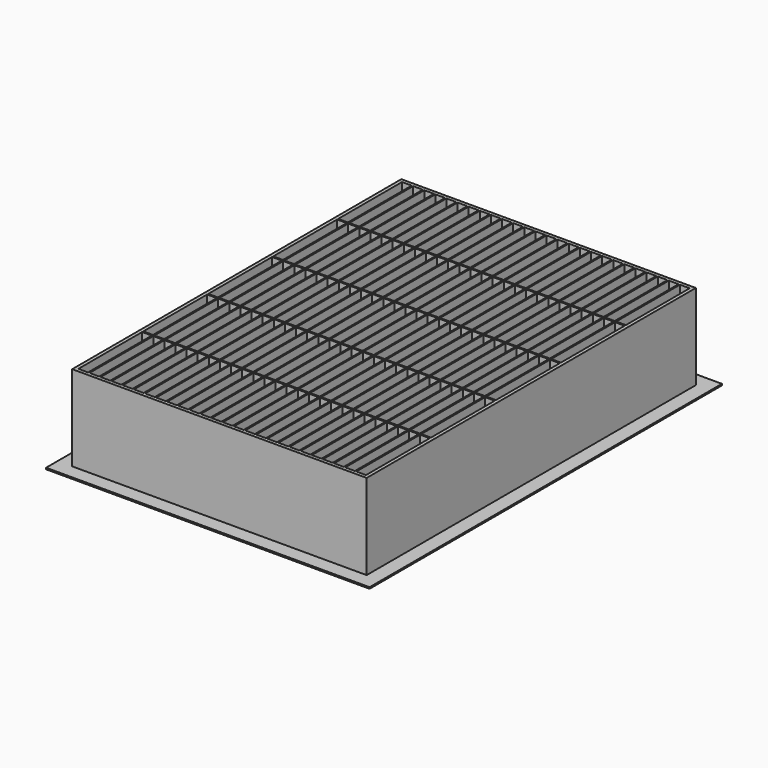
from build123d import *

# Parameters (mm, degrees)
F0_W     = 85.114214
F0_H     = 60.914214
F0_W_2   = 16.5
F0_H_2   = 2
F1_DEPTH = 18
F2_W     = 85.114214
F2_H     = 60.914214
F3_DEPTH = 1
F5_ANGLE = 90
F6_W     = 66.914214
F6_H     = 91.114214
F6_W_2   = 60.914214
F6_H_2   = 85.114214
F7_DEPTH = 0.3


with BuildPart() as f1:
    # F0 (on Top) → F1 (new body)
    with BuildSketch(Plane.XY):
        Rectangle(F0_W, F0_H)
        with Locations((-33.6, -28.75)):
            Rectangle(F0_W_2, F0_H_2, mode=Mode.SUBTRACT)
        with Locations((-33.6, -26.45)):
            Rectangle(F0_W_2, F0_H_2, mode=Mode.SUBTRACT)
        with Locations((-33.6, -24.15)):
            Rectangle(F0_W_2, F0_H_2, mode=Mode.SUBTRACT)
        with Locations((-33.6, -21.85)):
            Rectangle(F0_W_2, F0_H_2, mode=Mode.SUBTRACT)
        with Locations((-33.6, -19.55)):
            Rectangle(F0_W_2, F0_H_2, mode=Mode.SUBTRACT)
        with Locations((-33.6, -17.25)):
            Rectangle(F0_W_2, F0_H_2, mode=Mode.SUBTRACT)
        with Locations((-16.8, -28.75)):
            Rectangle(F0_W_2, F0_H_2, mode=Mode.SUBTRACT)
        with Locations((-16.8, -26.45)):
            Rectangle(F0_W_2, F0_H_2, mode=Mode.SUBTRACT)
        with Locations((-16.8, -24.15)):
            Rectangle(F0_W_2, F0_H_2, mode=Mode.SUBTRACT)
        with Locations((-16.8, -21.85)):
            Rectangle(F0_W_2, F0_H_2, mode=Mode.SUBTRACT)
        with Locations((-16.8, -19.55)):
            Rectangle(F0_W_2, F0_H_2, mode=Mode.SUBTRACT)
        with Locations((-16.8, -17.25)):
            Rectangle(F0_W_2, F0_H_2, mode=Mode.SUBTRACT)
        with Locations((-33.6, -14.95)):
            Rectangle(F0_W_2, F0_H_2, mode=Mode.SUBTRACT)
        with Locations((-33.6, -12.65)):
            Rectangle(F0_W_2, F0_H_2, mode=Mode.SUBTRACT)
        with Locations((-33.6, -10.35)):
            Rectangle(F0_W_2, F0_H_2, mode=Mode.SUBTRACT)
        with Locations((-33.6, -8.05)):
            Rectangle(F0_W_2, F0_H_2, mode=Mode.SUBTRACT)
        with Locations((-33.6, -5.75)):
            Rectangle(F0_W_2, F0_H_2, mode=Mode.SUBTRACT)
        with Locations((-33.6, -3.45)):
            Rectangle(F0_W_2, F0_H_2, mode=Mode.SUBTRACT)
        with Locations((-33.6, -1.15)):
            Rectangle(F0_W_2, F0_H_2, mode=Mode.SUBTRACT)
        with Locations((-16.8, -14.95)):
            Rectangle(F0_W_2, F0_H_2, mode=Mode.SUBTRACT)
        with Locations((-16.8, -12.65)):
            Rectangle(F0_W_2, F0_H_2, mode=Mode.SUBTRACT)
        with Locations((-16.8, -10.35)):
            Rectangle(F0_W_2, F0_H_2, mode=Mode.SUBTRACT)
        with Locations((-16.8, -8.05)):
            Rectangle(F0_W_2, F0_H_2, mode=Mode.SUBTRACT)
        with Locations((-16.8, -5.75)):
            Rectangle(F0_W_2, F0_H_2, mode=Mode.SUBTRACT)
        with Locations((-16.8, -3.45)):
            Rectangle(F0_W_2, F0_H_2, mode=Mode.SUBTRACT)
        with Locations((-16.8, -1.15)):
            Rectangle(F0_W_2, F0_H_2, mode=Mode.SUBTRACT)
        with Locations((0, -28.75)):
            Rectangle(F0_W_2, F0_H_2, mode=Mode.SUBTRACT)
        with Locations((0, -26.45)):
            Rectangle(F0_W_2, F0_H_2, mode=Mode.SUBTRACT)
        with Locations((0, -24.15)):
            Rectangle(F0_W_2, F0_H_2, mode=Mode.SUBTRACT)
        with Locations((16.8, -28.75)):
            Rectangle(F0_W_2, F0_H_2, mode=Mode.SUBTRACT)
        with Locations((16.8, -26.45)):
            Rectangle(F0_W_2, F0_H_2, mode=Mode.SUBTRACT)
        with Locations((16.8, -24.15)):
            Rectangle(F0_W_2, F0_H_2, mode=Mode.SUBTRACT)
        with Locations((0, -21.85)):
            Rectangle(F0_W_2, F0_H_2, mode=Mode.SUBTRACT)
        with Locations((0, -19.55)):
            Rectangle(F0_W_2, F0_H_2, mode=Mode.SUBTRACT)
        with Locations((0, -17.25)):
            Rectangle(F0_W_2, F0_H_2, mode=Mode.SUBTRACT)
        with Locations((16.8, -21.85)):
            Rectangle(F0_W_2, F0_H_2, mode=Mode.SUBTRACT)
        with Locations((16.8, -19.55)):
            Rectangle(F0_W_2, F0_H_2, mode=Mode.SUBTRACT)
        with Locations((16.8, -17.25)):
            Rectangle(F0_W_2, F0_H_2, mode=Mode.SUBTRACT)
        with Locations((33.6, -28.75)):
            Rectangle(F0_W_2, F0_H_2, mode=Mode.SUBTRACT)
        with Locations((33.6, -26.45)):
            Rectangle(F0_W_2, F0_H_2, mode=Mode.SUBTRACT)
        with Locations((33.6, -24.15)):
            Rectangle(F0_W_2, F0_H_2, mode=Mode.SUBTRACT)
        with Locations((33.6, -21.85)):
            Rectangle(F0_W_2, F0_H_2, mode=Mode.SUBTRACT)
        with Locations((33.6, -19.55)):
            Rectangle(F0_W_2, F0_H_2, mode=Mode.SUBTRACT)
        with Locations((33.6, -17.25)):
            Rectangle(F0_W_2, F0_H_2, mode=Mode.SUBTRACT)
        with Locations((0, -14.95)):
            Rectangle(F0_W_2, F0_H_2, mode=Mode.SUBTRACT)
        with Locations((0, -12.65)):
            Rectangle(F0_W_2, F0_H_2, mode=Mode.SUBTRACT)
        with Locations((0, -10.35)):
            Rectangle(F0_W_2, F0_H_2, mode=Mode.SUBTRACT)
        with Locations((0, -8.05)):
            Rectangle(F0_W_2, F0_H_2, mode=Mode.SUBTRACT)
        with Locations((16.8, -14.95)):
            Rectangle(F0_W_2, F0_H_2, mode=Mode.SUBTRACT)
        with Locations((16.8, -12.65)):
            Rectangle(F0_W_2, F0_H_2, mode=Mode.SUBTRACT)
        with Locations((16.8, -10.35)):
            Rectangle(F0_W_2, F0_H_2, mode=Mode.SUBTRACT)
        with Locations((16.8, -8.05)):
            Rectangle(F0_W_2, F0_H_2, mode=Mode.SUBTRACT)
        with Locations((0, -5.75)):
            Rectangle(F0_W_2, F0_H_2, mode=Mode.SUBTRACT)
        with Locations((0, -3.45)):
            Rectangle(F0_W_2, F0_H_2, mode=Mode.SUBTRACT)
        with Locations((0, -1.15)):
            Rectangle(F0_W_2, F0_H_2, mode=Mode.SUBTRACT)
        with Locations((16.8, -5.75)):
            Rectangle(F0_W_2, F0_H_2, mode=Mode.SUBTRACT)
        with Locations((16.8, -3.45)):
            Rectangle(F0_W_2, F0_H_2, mode=Mode.SUBTRACT)
        with Locations((16.8, -1.15)):
            Rectangle(F0_W_2, F0_H_2, mode=Mode.SUBTRACT)
        with Locations((33.6, -14.95)):
            Rectangle(F0_W_2, F0_H_2, mode=Mode.SUBTRACT)
        with Locations((33.6, -12.65)):
            Rectangle(F0_W_2, F0_H_2, mode=Mode.SUBTRACT)
        with Locations((33.6, -10.35)):
            Rectangle(F0_W_2, F0_H_2, mode=Mode.SUBTRACT)
        with Locations((33.6, -8.05)):
            Rectangle(F0_W_2, F0_H_2, mode=Mode.SUBTRACT)
        with Locations((33.6, -5.75)):
            Rectangle(F0_W_2, F0_H_2, mode=Mode.SUBTRACT)
        with Locations((33.6, -3.45)):
            Rectangle(F0_W_2, F0_H_2, mode=Mode.SUBTRACT)
        with Locations((33.6, -1.15)):
            Rectangle(F0_W_2, F0_H_2, mode=Mode.SUBTRACT)
        with Locations((-33.6, 1.15)):
            Rectangle(F0_W_2, F0_H_2, mode=Mode.SUBTRACT)
        with Locations((-33.6, 3.45)):
            Rectangle(F0_W_2, F0_H_2, mode=Mode.SUBTRACT)
        with Locations((-33.6, 5.75)):
            Rectangle(F0_W_2, F0_H_2, mode=Mode.SUBTRACT)
        with Locations((-33.6, 8.05)):
            Rectangle(F0_W_2, F0_H_2, mode=Mode.SUBTRACT)
        with Locations((-33.6, 10.35)):
            Rectangle(F0_W_2, F0_H_2, mode=Mode.SUBTRACT)
        with Locations((-33.6, 12.65)):
            Rectangle(F0_W_2, F0_H_2, mode=Mode.SUBTRACT)
        with Locations((-33.6, 14.95)):
            Rectangle(F0_W_2, F0_H_2, mode=Mode.SUBTRACT)
        with Locations((-16.8, 1.15)):
            Rectangle(F0_W_2, F0_H_2, mode=Mode.SUBTRACT)
        with Locations((-16.8, 3.45)):
            Rectangle(F0_W_2, F0_H_2, mode=Mode.SUBTRACT)
        with Locations((-16.8, 5.75)):
            Rectangle(F0_W_2, F0_H_2, mode=Mode.SUBTRACT)
        with Locations((-16.8, 8.05)):
            Rectangle(F0_W_2, F0_H_2, mode=Mode.SUBTRACT)
        with Locations((-16.8, 10.35)):
            Rectangle(F0_W_2, F0_H_2, mode=Mode.SUBTRACT)
        with Locations((-16.8, 12.65)):
            Rectangle(F0_W_2, F0_H_2, mode=Mode.SUBTRACT)
        with Locations((-16.8, 14.95)):
            Rectangle(F0_W_2, F0_H_2, mode=Mode.SUBTRACT)
        with Locations((-33.6, 17.25)):
            Rectangle(F0_W_2, F0_H_2, mode=Mode.SUBTRACT)
        with Locations((-33.6, 19.55)):
            Rectangle(F0_W_2, F0_H_2, mode=Mode.SUBTRACT)
        with Locations((-33.6, 21.85)):
            Rectangle(F0_W_2, F0_H_2, mode=Mode.SUBTRACT)
        with Locations((-33.6, 24.15)):
            Rectangle(F0_W_2, F0_H_2, mode=Mode.SUBTRACT)
        with Locations((-33.6, 26.45)):
            Rectangle(F0_W_2, F0_H_2, mode=Mode.SUBTRACT)
        with Locations((-33.6, 28.75)):
            Rectangle(F0_W_2, F0_H_2, mode=Mode.SUBTRACT)
        with Locations((-16.8, 17.25)):
            Rectangle(F0_W_2, F0_H_2, mode=Mode.SUBTRACT)
        with Locations((-16.8, 19.55)):
            Rectangle(F0_W_2, F0_H_2, mode=Mode.SUBTRACT)
        with Locations((-16.8, 21.85)):
            Rectangle(F0_W_2, F0_H_2, mode=Mode.SUBTRACT)
        with Locations((-16.8, 24.15)):
            Rectangle(F0_W_2, F0_H_2, mode=Mode.SUBTRACT)
        with Locations((-16.8, 26.45)):
            Rectangle(F0_W_2, F0_H_2, mode=Mode.SUBTRACT)
        with Locations((-16.8, 28.75)):
            Rectangle(F0_W_2, F0_H_2, mode=Mode.SUBTRACT)
        with Locations((0, 1.15)):
            Rectangle(F0_W_2, F0_H_2, mode=Mode.SUBTRACT)
        with Locations((0, 3.45)):
            Rectangle(F0_W_2, F0_H_2, mode=Mode.SUBTRACT)
        with Locations((0, 5.75)):
            Rectangle(F0_W_2, F0_H_2, mode=Mode.SUBTRACT)
        with Locations((16.8, 1.15)):
            Rectangle(F0_W_2, F0_H_2, mode=Mode.SUBTRACT)
        with Locations((16.8, 3.45)):
            Rectangle(F0_W_2, F0_H_2, mode=Mode.SUBTRACT)
        with Locations((16.8, 5.75)):
            Rectangle(F0_W_2, F0_H_2, mode=Mode.SUBTRACT)
        with Locations((0, 8.05)):
            Rectangle(F0_W_2, F0_H_2, mode=Mode.SUBTRACT)
        with Locations((0, 10.35)):
            Rectangle(F0_W_2, F0_H_2, mode=Mode.SUBTRACT)
        with Locations((0, 12.65)):
            Rectangle(F0_W_2, F0_H_2, mode=Mode.SUBTRACT)
        with Locations((0, 14.95)):
            Rectangle(F0_W_2, F0_H_2, mode=Mode.SUBTRACT)
        with Locations((16.8, 8.05)):
            Rectangle(F0_W_2, F0_H_2, mode=Mode.SUBTRACT)
        with Locations((16.8, 10.35)):
            Rectangle(F0_W_2, F0_H_2, mode=Mode.SUBTRACT)
        with Locations((16.8, 12.65)):
            Rectangle(F0_W_2, F0_H_2, mode=Mode.SUBTRACT)
        with Locations((16.8, 14.95)):
            Rectangle(F0_W_2, F0_H_2, mode=Mode.SUBTRACT)
        with Locations((33.6, 1.15)):
            Rectangle(F0_W_2, F0_H_2, mode=Mode.SUBTRACT)
        with Locations((33.6, 3.45)):
            Rectangle(F0_W_2, F0_H_2, mode=Mode.SUBTRACT)
        with Locations((33.6, 5.75)):
            Rectangle(F0_W_2, F0_H_2, mode=Mode.SUBTRACT)
        with Locations((33.6, 8.05)):
            Rectangle(F0_W_2, F0_H_2, mode=Mode.SUBTRACT)
        with Locations((33.6, 10.35)):
            Rectangle(F0_W_2, F0_H_2, mode=Mode.SUBTRACT)
        with Locations((33.6, 12.65)):
            Rectangle(F0_W_2, F0_H_2, mode=Mode.SUBTRACT)
        with Locations((33.6, 14.95)):
            Rectangle(F0_W_2, F0_H_2, mode=Mode.SUBTRACT)
        with Locations((0, 17.25)):
            Rectangle(F0_W_2, F0_H_2, mode=Mode.SUBTRACT)
        with Locations((0, 19.55)):
            Rectangle(F0_W_2, F0_H_2, mode=Mode.SUBTRACT)
        with Locations((0, 21.85)):
            Rectangle(F0_W_2, F0_H_2, mode=Mode.SUBTRACT)
        with Locations((16.8, 17.25)):
            Rectangle(F0_W_2, F0_H_2, mode=Mode.SUBTRACT)
        with Locations((16.8, 19.55)):
            Rectangle(F0_W_2, F0_H_2, mode=Mode.SUBTRACT)
        with Locations((16.8, 21.85)):
            Rectangle(F0_W_2, F0_H_2, mode=Mode.SUBTRACT)
        with Locations((0, 24.15)):
            Rectangle(F0_W_2, F0_H_2, mode=Mode.SUBTRACT)
        with Locations((0, 26.45)):
            Rectangle(F0_W_2, F0_H_2, mode=Mode.SUBTRACT)
        with Locations((0, 28.75)):
            Rectangle(F0_W_2, F0_H_2, mode=Mode.SUBTRACT)
        with Locations((16.8, 24.15)):
            Rectangle(F0_W_2, F0_H_2, mode=Mode.SUBTRACT)
        with Locations((16.8, 26.45)):
            Rectangle(F0_W_2, F0_H_2, mode=Mode.SUBTRACT)
        with Locations((16.8, 28.75)):
            Rectangle(F0_W_2, F0_H_2, mode=Mode.SUBTRACT)
        with Locations((33.6, 17.25)):
            Rectangle(F0_W_2, F0_H_2, mode=Mode.SUBTRACT)
        with Locations((33.6, 19.55)):
            Rectangle(F0_W_2, F0_H_2, mode=Mode.SUBTRACT)
        with Locations((33.6, 21.85)):
            Rectangle(F0_W_2, F0_H_2, mode=Mode.SUBTRACT)
        with Locations((33.6, 24.15)):
            Rectangle(F0_W_2, F0_H_2, mode=Mode.SUBTRACT)
        with Locations((33.6, 26.45)):
            Rectangle(F0_W_2, F0_H_2, mode=Mode.SUBTRACT)
        with Locations((33.6, 28.75)):
            Rectangle(F0_W_2, F0_H_2, mode=Mode.SUBTRACT)
    extrude(amount=F1_DEPTH)

    # F2 (on Top) → F3 (join)
    with BuildSketch(Plane.XY):
        Rectangle(F2_W, F2_H)
    extrude(amount=F3_DEPTH)


with BuildPart() as f1_1:
    # F5: moved
    add(f1.part.rotate(Axis((0, 0, 10), (0, 0, 1)), F5_ANGLE))

    # F6 (on face) → F7 (join)
    with BuildSketch(Plane(origin=(0, 0, 0), x_dir=(1, 0, 0), z_dir=(0, 0, -1))):
        Rectangle(F6_W, F6_H)
        Rectangle(F6_W_2, F6_H_2, mode=Mode.SUBTRACT)
    extrude(amount=-F7_DEPTH)


solid = f1_1.part
